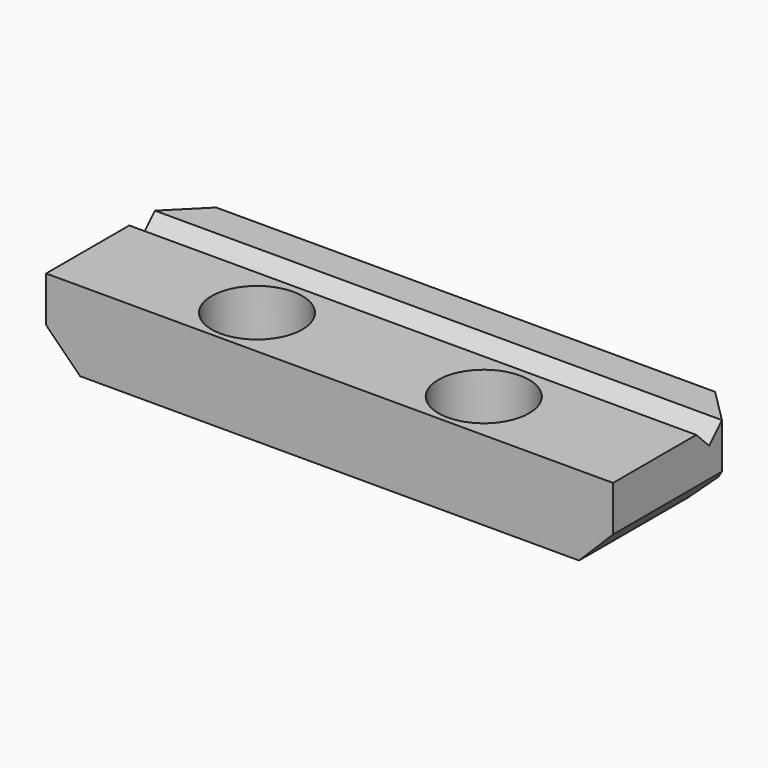
from build123d import *

# Parameters (mm, degrees)
F1_DEPTH       = 7
F3_D           = 4.5
F3_CBORE_D     = 8
F3_CBORE_DEPTH = 5
F4_SIZE        = 3
F5_SIZE        = 3
F7_DEPTH       = 50


with BuildPart() as f1:
    # F0 (on Top) → F1 (new body)
    with BuildSketch(Plane.XY):
        Polygon((-20, -5), (20, -5), (25, -5), (25, 10), (20, 10), (-20, 10), (-25, 10), (-25, -5), align=None)
    extrude(amount=F1_DEPTH)

    # F3 (through all)
    with Locations(Plane.XY.offset(7)):
        with Locations((-10, -0.5), (10, -0.5)):
            CounterBoreHole(F3_D / 2, F3_CBORE_D / 2, F3_CBORE_DEPTH)

    # F4
    f4_edges = [f1.edges().sort_by_distance(p)[0] for p in [
        (-25, 10, 3.5),
        (25, 10, 3.5),
    ]]
    chamfer(f4_edges, length=F4_SIZE)

    # F5 (call 1 of 3: OpenCascade refuses the feature's edges together)
    f5_edges = [f1.edges().sort_by_distance(p)[0] for p in [
        (0, 10, 0),
    ]]
    chamfer(f5_edges, length=F5_SIZE)

    # F5#2 (call 2 of 3)
    f5_2_edges = [f1.edges().sort_by_distance(p)[0] for p in [
        (25, 1, 0),
    ]]
    chamfer(f5_2_edges, length=F5_SIZE)

    # F5#3 (call 3 of 3)
    f5_3_edges = [f1.edges().sort_by_distance(p)[0] for p in [
        (-25, 1, 0),
    ]]
    chamfer(f5_3_edges, length=F5_SIZE)

    # F6 (on face) → F7 (cut)
    with BuildSketch(Plane.YZ.offset(25)):
        Polygon((5.5857864376, 5.5857864376), (7, 7), (4.1715728753, 7), align=None)
    extrude(amount=-F7_DEPTH, mode=Mode.SUBTRACT)


solid = f1.part
